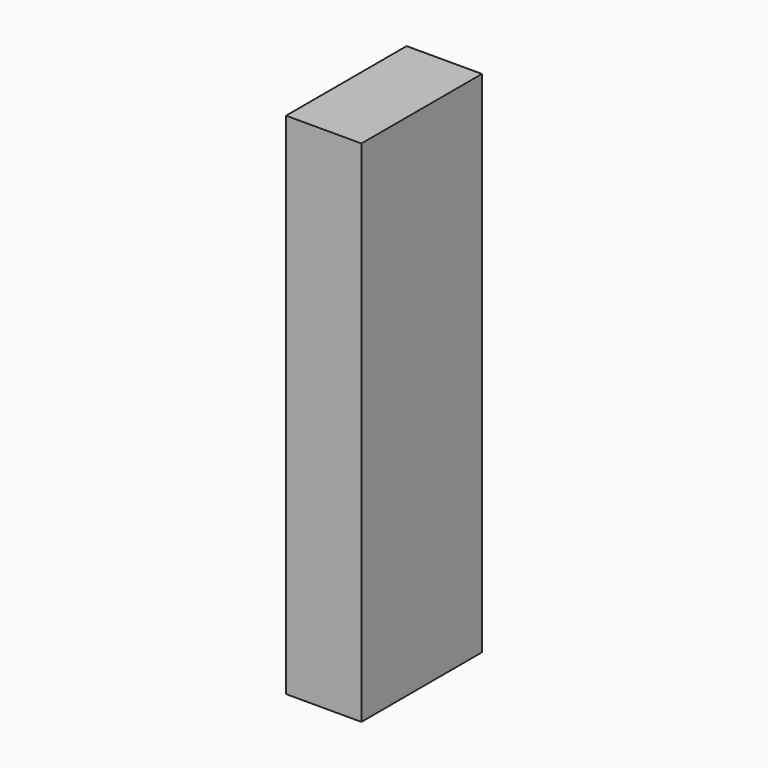
from build123d import *

# Parameters (mm, degrees)
F0_W     = 12.7
F0_H     = 25.4
F1_DEPTH = 85.852
F3_R     = 1.4986
F4_DEPTH = 25.4


with BuildPart() as f1:
    # F0 (on Top) → F1 (new body)
    with BuildSketch(Plane.XY):
        with Locations((-13.3659312665, -6.2991462976)):
            Rectangle(F0_W, F0_H)
    extrude(amount=F1_DEPTH)

    # F3 (on face) → F4 (cut)
    with BuildSketch(Plane(origin=(0, 0, 0), x_dir=(1, 0, 0), z_dir=(0, 0, -1))):
        with Locations((-16.9473312665, -2.3622537024)):
            Circle(F3_R)
        with Locations((-9.7845312665, -2.3622537024)):
            Circle(F3_R)
        with Locations((-16.9473312665, 14.9605462976)):
            Circle(F3_R)
        with Locations((-9.7845312665, 14.9605462976)):
            Circle(F3_R)
    extrude(amount=-F4_DEPTH, mode=Mode.SUBTRACT)


solid = f1.part
